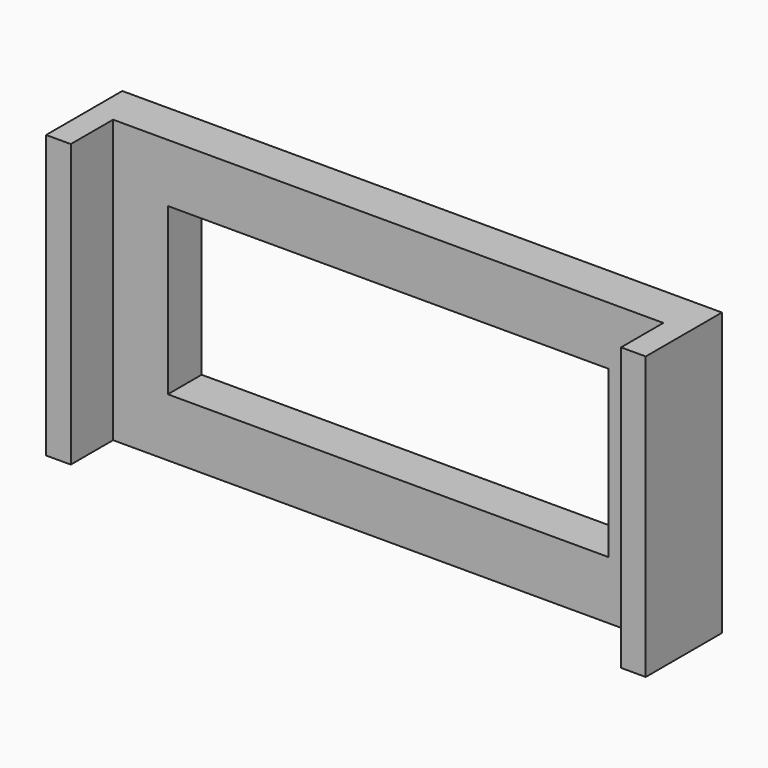
from build123d import *

# Parameters (mm, degrees)
F0_W     = 85
F0_H     = 40
F1_DEPTH = 6
F2_W     = 62.5
F2_H     = 23.5
F3_DEPTH = 25
F4_W     = 3.5
F4_H     = 40
F5_DEPTH = 7.5


with BuildPart() as f1:
    # F0 (on Front) → F1 (new body)
    with BuildSketch(Plane.XZ):
        Rectangle(F0_W, F0_H)
    extrude(amount=F1_DEPTH)

    # F2 (on face) → F3 (cut)
    with BuildSketch(Plane.XZ.offset(6)):
        Rectangle(F2_W, F2_H)
    extrude(amount=-F3_DEPTH, mode=Mode.SUBTRACT)

    # F4 (on face) → F5 (join)
    with BuildSketch(Plane.XZ.offset(6)):
        with Locations((40.75, 0)):
            Rectangle(F4_W, F4_H)
        with Locations((-40.75, 0)):
            Rectangle(F4_W, F4_H)
    extrude(amount=F5_DEPTH)


solid = f1.part
